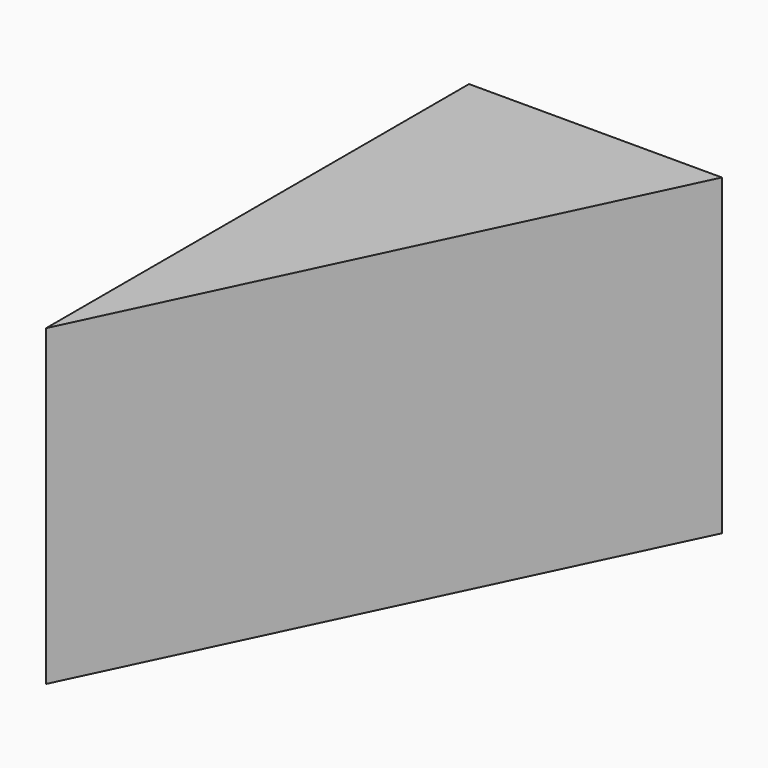
from build123d import *

# Parameters (mm, degrees)
F3_DEPTH = 500


with BuildPart() as f3:
    # F2 (on face) → F3 (new body)
    with BuildSketch(Plane.XY):
        Polygon((-559.985042, 1931.517959), (-559.985042, 1087.63361), (-156.274915, 1931.517959), align=None)
    extrude(amount=F3_DEPTH)


solid = f3.part
